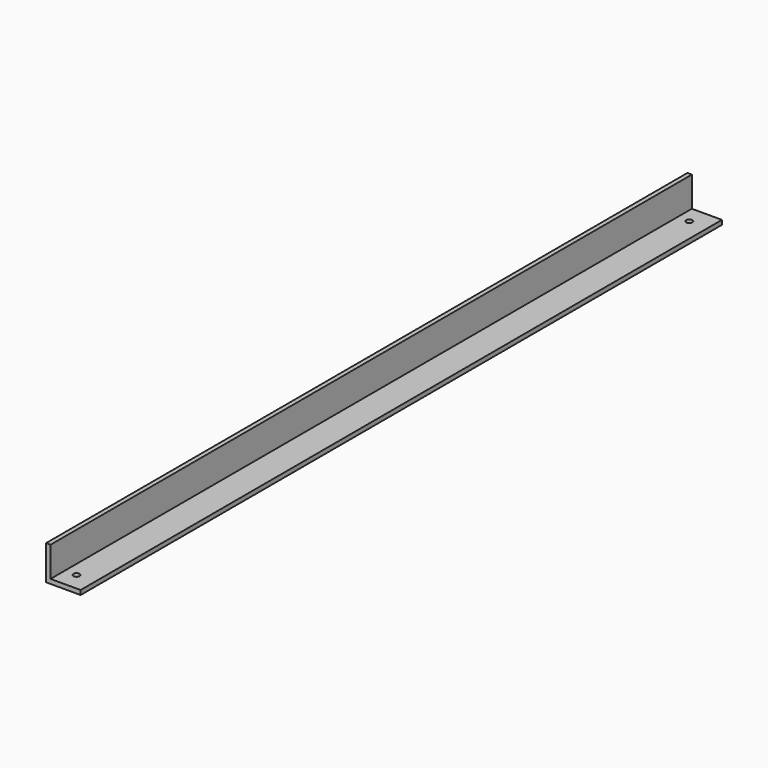
from build123d import *

# Parameters (mm, degrees)
F1_DEPTH = 571.5
F3_D     = 8.89


with BuildPart() as f1:
    # F0 (on Front) → F1 (new body, symmetric)
    with BuildSketch(Plane.XZ):
        Polygon((-24.6126, -24.6126), (24.6126, -24.6126), (24.6126, -18.2626), (-18.2626, -18.2626), (-18.2626, 24.6126), (-24.6126, 24.6126), align=None)
    extrude(amount=F1_DEPTH, both=True)

    # F3 (through all)
    with Locations(Plane.XY.offset(-18.2626)):
        with Locations((-1.6002, -546.1), (-1.6002, 546.1)):
            Hole(F3_D / 2)


solid = f1.part
